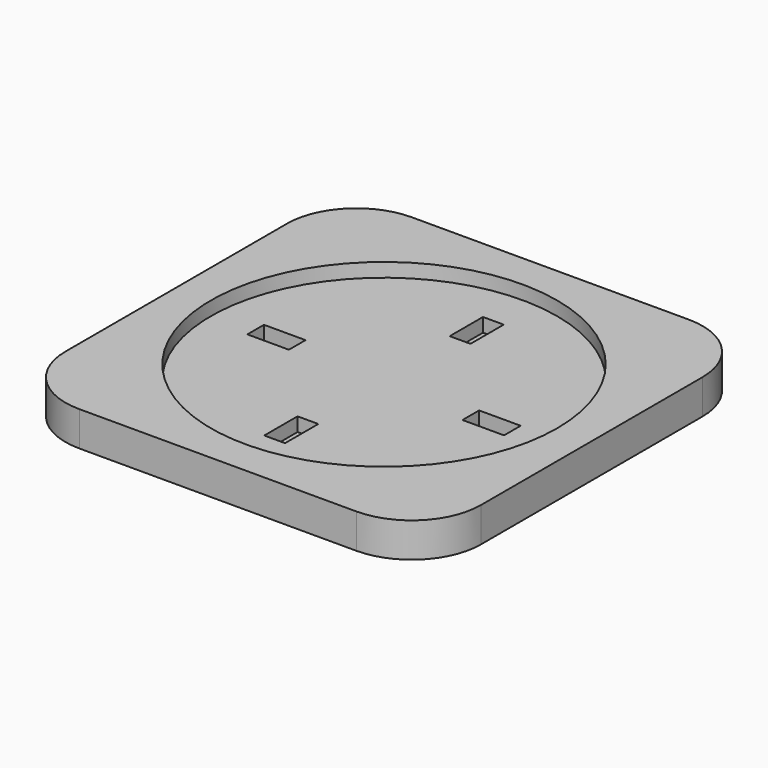
from build123d import *

# Parameters (mm, degrees)
F0_W          = 60
F0_H          = 60
F1_DEPTH      = 5
F2_R          = 25
F3_DEPTH      = 2
F4_W          = 3
F4_H          = 6
F4_W_2        = 6
F4_H_2        = 3
F5_DEPTH      = 2
F5_DEPTH_BACK = 2
F6_R          = 10


with BuildPart() as f1:
    # F0 (on Top) → F1 (new body)
    with BuildSketch(Plane.XY):
        Rectangle(F0_W, F0_H)
    extrude(amount=F1_DEPTH)

    # F2 (on face) → F3 (cut)
    with BuildSketch(Plane.XY.offset(5)):
        Circle(F2_R)
    extrude(amount=-F3_DEPTH, mode=Mode.SUBTRACT)

    # F4 (on face) → F5 (cut, two sides)
    with BuildSketch(Plane.XY.offset(3)) as f5_sk:
        with Locations((-0.586019, -16)):
            Rectangle(F4_W, F4_H)
        with Locations((-16, 0.586019)):
            Rectangle(F4_W_2, F4_H_2)
        with Locations((0.586019, 16)):
            Rectangle(F4_W, F4_H)
        with Locations((16, -0.586019)):
            Rectangle(F4_W_2, F4_H_2)
    extrude(amount=F5_DEPTH, mode=Mode.SUBTRACT)
    extrude(f5_sk.sketch, amount=-F5_DEPTH_BACK, mode=Mode.SUBTRACT)

    # F6
    f6_edges = [f1.edges().sort_by_distance(p)[0] for p in [
        (-30, 30, 2.5),
        (-30, -30, 2.5),
        (30, -30, 2.5),
        (30, 30, 2.5),
    ]]
    fillet(f6_edges, radius=F6_R)


solid = f1.part
